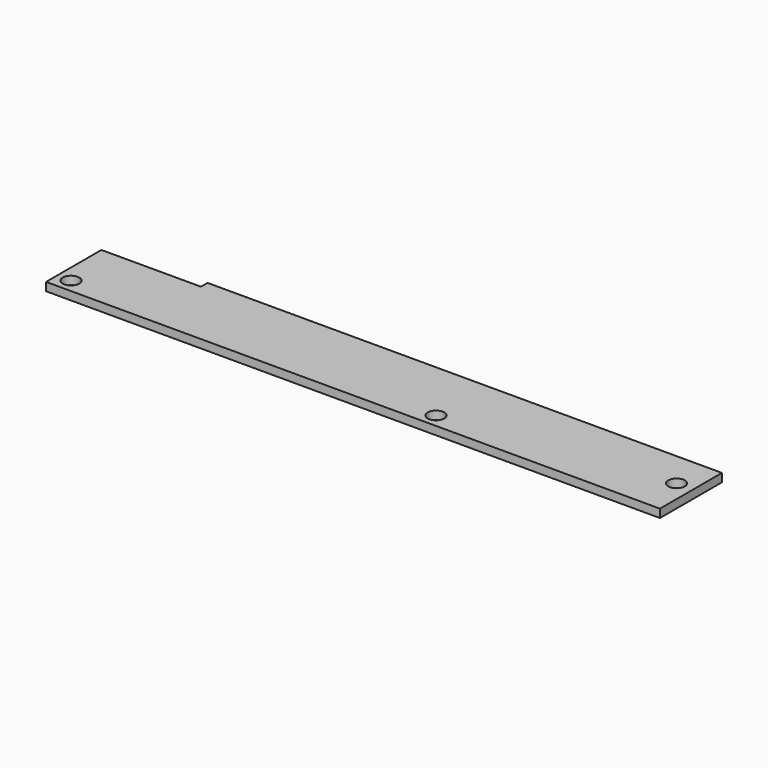
from build123d import *

# Parameters (mm, degrees)
F0_R     = 1.5
F1_DEPTH = 1.5


with BuildPart() as f1:
    # F0 (on Top) → F1 (new body)
    with BuildSketch(Plane.XY):
        Polygon((-55.5, 5.5), (-55.5, -7), (55.5, -7), (55.5, 7), (-37.5, 7), (-37.5, 5.5), align=None)
        with Locations((-53, -4.5)):
            Circle(F0_R, mode=Mode.SUBTRACT)
        with Locations((13, -4.5)):
            Circle(F0_R, mode=Mode.SUBTRACT)
        with Locations((52.5, 0.5)):
            Circle(F0_R, mode=Mode.SUBTRACT)
    extrude(amount=-F1_DEPTH)


solid = f1.part
